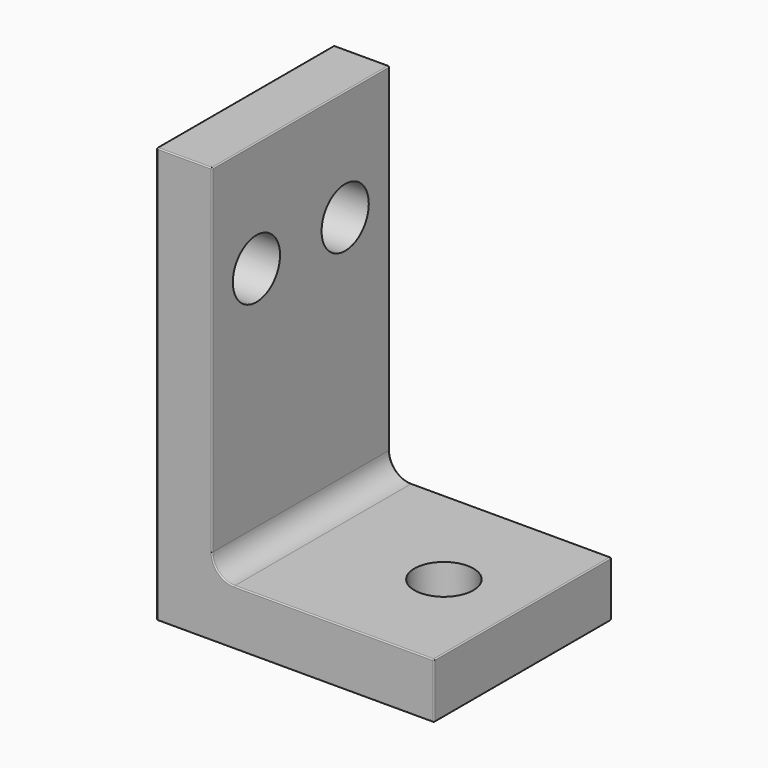
from build123d import *

# Parameters (mm, degrees)
F1_DEPTH = 12.7
F2_R     = 2.54
F3_R     = 0.127
F4_R     = 3.3782
F5_DEPTH = 6.351
F6_R     = 3.3782
F7_DEPTH = 6.351


with BuildPart() as f1:
    # F0 (on Front) → F1 (new body, symmetric)
    with BuildSketch(Plane.XZ):
        Polygon((6.35, 44.45), (0, 44.45), (0, 3.175), (0, 0), (0, -3.175), (31.75, -3.175), (31.75, 3.175), (6.35, 3.175), align=None)
    extrude(amount=F1_DEPTH, both=True)

    # F2
    f2_edges = [f1.edges().sort_by_distance(p)[0] for p in [
        (6.35, 0, 3.175),
    ]]
    fillet(f2_edges, radius=F2_R)

    # F3
    f3_edges = [f1.edges().sort_by_distance(p)[0] for p in [
        (6.35, 0, 44.45),
        (0, 0, 44.45),
        (3.175, -12.7, 44.45),
        (6.35, -12.7, 25.0825),
        (20.32, -12.7, 3.175),
        (15.875, -12.7, -3.175),
        (0, -12.7, 20.6375),
        (31.75, 0, 3.175),
        (31.75, 0, -3.175),
        (20.32, 12.7, 3.175),
        (31.75, 12.7, 0),
        (15.875, 12.7, -3.175),
        (0, 12.7, 20.6375),
        (6.35, 12.7, 25.0825),
        (0, 0, -3.175),
        (31.75, -12.7, 0),
        (3.175, 12.7, 44.45),
    ]]
    fillet(f3_edges, radius=F3_R)

    # F4 (on face) → F5 (cut, through all)
    with BuildSketch(Plane.YZ.offset(6.35)):
        with Locations((-6.35, 31.75)):
            Circle(F4_R)
        with Locations((6.35, 31.75)):
            Circle(F4_R)
    extrude(amount=-F5_DEPTH, mode=Mode.SUBTRACT)

    # F6 (on face) → F7 (cut, through all)
    with BuildSketch(Plane.XY.offset(3.175)):
        with Locations((22.733, 0)):
            Circle(F6_R)
    extrude(amount=-F7_DEPTH, mode=Mode.SUBTRACT)


solid = f1.part
